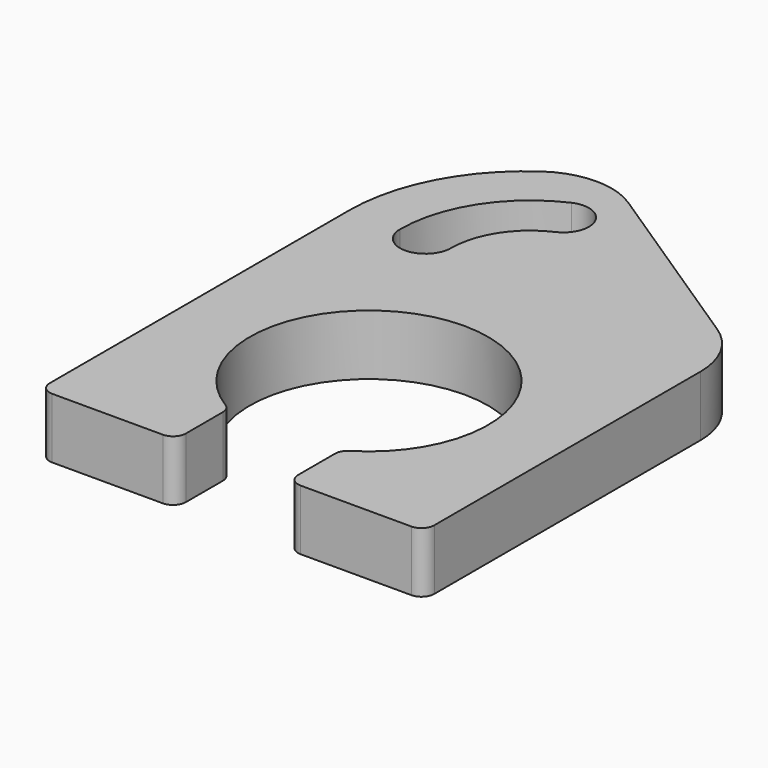
from build123d import *

# Parameters (mm, degrees)
F1_DEPTH = 6.0198
F3_DEPTH = 6.0198
F4_R     = 7.62
F5_R     = 1.27


with BuildPart() as f1:
    # F0 (on Top) → F1 (new body)
    with BuildSketch(Plane.XY):
        with BuildLine():
            ThreePointArc((-5.588, -10.4775), (0, 11.8745), (5.588, -10.4775))
            Line((5.588, -10.4775), (5.588, -17.0815))
            Line((5.588, -17.0815), (19.1516, -17.0815))
            Line((19.1516, -17.0815), (19.1516, 21.4503))
            Line((19.1516, 21.4503), (-6.5024, 38.3413))
            ThreePointArc((-6.5024, 38.3413), (-15.638779, 32.001463), (-19.1516, 21.4503))
            Line((-19.1516, 21.4503), (-19.1516, -17.0815))
            Line((-19.1516, -17.0815), (-5.588, -17.0815))
            Line((-5.588, -17.0815), (-5.588, -10.4775))
        make_face()
    extrude(amount=F1_DEPTH)

    # F2 (on face) → F3 (cut, through all)
    with BuildSketch(Plane.XY.offset(6.0198)):
        with BuildLine():
            ThreePointArc((-6.444942, 33.269299), (-11.999418, 28.483341), (-14.0716, 21.4503))
            ThreePointArc((-14.0716, 21.4503), (-11.5316, 18.9103), (-8.9916, 21.4503))
            ThreePointArc((-8.9916, 21.4503), (-7.730957, 25.728955), (-4.35181, 28.640563))
            ThreePointArc((-4.35181, 28.640563), (-3.084008, 32.001498), (-6.444942, 33.269299))
        make_face()
    extrude(amount=-F3_DEPTH, mode=Mode.SUBTRACT)

    # F4
    f4_edges = [f1.edges().sort_by_distance(p)[0] for p in [
        (-6.5024, 38.3413, 3.0099),
        (19.1516, 21.4503, 3.0099),
    ]]
    fillet(f4_edges, radius=F4_R)

    # F5
    f5_edges = [f1.edges().sort_by_distance(p)[0] for p in [
        (-19.1516, -17.0815, 3.0099),
        (-5.588, -17.0815, 3.0099),
        (5.588, -17.0815, 3.0099),
        (19.1516, -17.0815, 3.0099),
        (5.588, -10.4775, 3.0099),
        (-5.588, -10.4775, 3.0099),
    ]]
    fillet(f5_edges, radius=F5_R)


solid = f1.part
